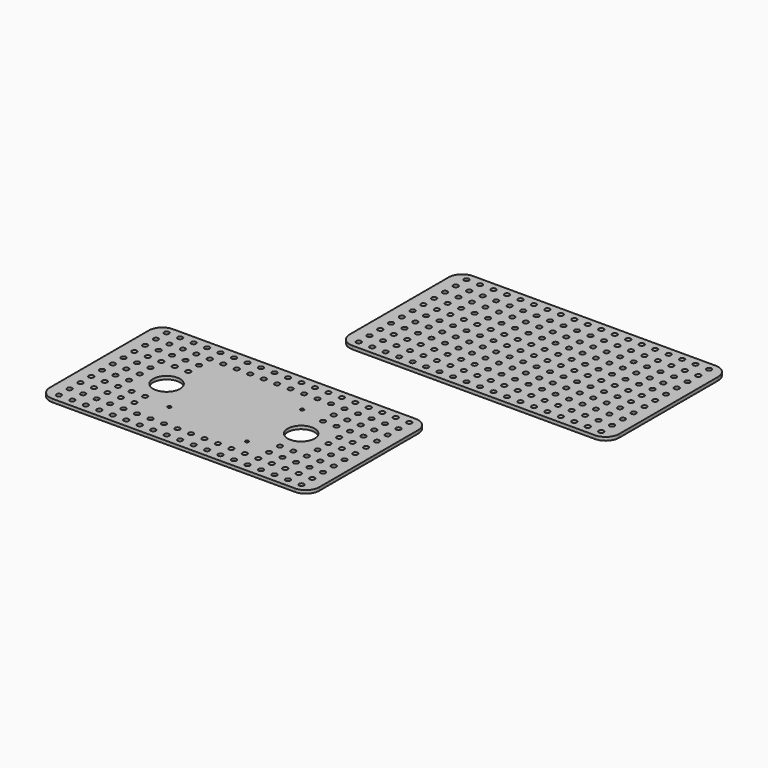
from build123d import *

# Parameters (mm, degrees)
F0_R     = 2.3114
F1_DEPTH = 3.175
F0_R_2   = 12.7
F0_W     = 90.25
F0_H     = 84.8
F0_R_3   = 1.5875
F2_DEPTH = 2.99974


with BuildPart() as f1:
    # F0 (on Top) → F1 (new body)
    with BuildSketch(Plane.XY):
        with BuildLine():
            ThreePointArc((0, 12.7), (3.7197438789, 3.7197438789), (12.7, 0))
            Line((12.7, 0), (241.3, 0))
            ThreePointArc((241.3, 0), (250.2802561211, 3.7197438789), (254, 12.7))
            Line((254, 12.7), (254, 129.3368))
            ThreePointArc((254, 129.3368), (250.2802561211, 138.3170561211), (241.3, 142.0368))
            Line((241.3, 142.0368), (12.7, 142.0368))
            ThreePointArc((12.7, 142.0368), (3.7197438789, 138.3170561211), (0, 129.3368))
            Line((0, 129.3368), (0, 12.7))
        make_face()
        with Locations((12.7, 7.5184)):
            Circle(F0_R, mode=Mode.SUBTRACT)
        with Locations((25.4, 7.5184)):
            Circle(F0_R, mode=Mode.SUBTRACT)
        with Locations((38.1, 7.5184)):
            Circle(F0_R, mode=Mode.SUBTRACT)
        with Locations((50.8, 7.5184)):
            Circle(F0_R, mode=Mode.SUBTRACT)
        with Locations((63.5, 7.5184)):
            Circle(F0_R, mode=Mode.SUBTRACT)
        with Locations((12.7, 20.2184)):
            Circle(F0_R, mode=Mode.SUBTRACT)
        with Locations((12.7, 32.9184)):
            Circle(F0_R, mode=Mode.SUBTRACT)
        with Locations((12.7, 45.6184)):
            Circle(F0_R, mode=Mode.SUBTRACT)
        with Locations((25.4, 20.2184)):
            Circle(F0_R, mode=Mode.SUBTRACT)
        with Locations((38.1, 20.2184)):
            Circle(F0_R, mode=Mode.SUBTRACT)
        with Locations((25.4, 32.9184)):
            Circle(F0_R, mode=Mode.SUBTRACT)
        with Locations((38.1, 32.9184)):
            Circle(F0_R, mode=Mode.SUBTRACT)
        with Locations((50.8, 20.2184)):
            Circle(F0_R, mode=Mode.SUBTRACT)
        with Locations((63.5, 20.2184)):
            Circle(F0_R, mode=Mode.SUBTRACT)
        with Locations((50.8, 32.9184)):
            Circle(F0_R, mode=Mode.SUBTRACT)
        with Locations((63.5, 32.9184)):
            Circle(F0_R, mode=Mode.SUBTRACT)
        with Locations((25.4, 45.6184)):
            Circle(F0_R, mode=Mode.SUBTRACT)
        with Locations((38.1, 45.6184)):
            Circle(F0_R, mode=Mode.SUBTRACT)
        with Locations((50.8, 45.6184)):
            Circle(F0_R, mode=Mode.SUBTRACT)
        with Locations((63.5, 45.6184)):
            Circle(F0_R, mode=Mode.SUBTRACT)
        with Locations((12.7, 58.3184)):
            Circle(F0_R, mode=Mode.SUBTRACT)
        with Locations((12.7, 71.0184)):
            Circle(F0_R, mode=Mode.SUBTRACT)
        with Locations((12.7, 83.7184)):
            Circle(F0_R, mode=Mode.SUBTRACT)
        with Locations((12.7, 96.4184)):
            Circle(F0_R, mode=Mode.SUBTRACT)
        with Locations((25.4, 58.3184)):
            Circle(F0_R, mode=Mode.SUBTRACT)
        with Locations((38.1, 58.3184)):
            Circle(F0_R, mode=Mode.SUBTRACT)
        with Locations((25.4, 71.0184)):
            Circle(F0_R, mode=Mode.SUBTRACT)
        with Locations((38.1, 71.0184)):
            Circle(F0_R, mode=Mode.SUBTRACT)
        with Locations((50.8, 58.3184)):
            Circle(F0_R, mode=Mode.SUBTRACT)
        with Locations((63.5, 58.3184)):
            Circle(F0_R, mode=Mode.SUBTRACT)
        with Locations((50.8, 71.0184)):
            Circle(F0_R, mode=Mode.SUBTRACT)
        with Locations((63.5, 71.0184)):
            Circle(F0_R, mode=Mode.SUBTRACT)
        with Locations((25.4, 83.7184)):
            Circle(F0_R, mode=Mode.SUBTRACT)
        with Locations((38.1, 83.7184)):
            Circle(F0_R, mode=Mode.SUBTRACT)
        with Locations((25.4, 96.4184)):
            Circle(F0_R, mode=Mode.SUBTRACT)
        with Locations((38.1, 96.4184)):
            Circle(F0_R, mode=Mode.SUBTRACT)
        with Locations((50.8, 83.7184)):
            Circle(F0_R, mode=Mode.SUBTRACT)
        with Locations((63.5, 83.7184)):
            Circle(F0_R, mode=Mode.SUBTRACT)
        with Locations((50.8, 96.4184)):
            Circle(F0_R, mode=Mode.SUBTRACT)
        with Locations((63.5, 96.4184)):
            Circle(F0_R, mode=Mode.SUBTRACT)
        with Locations((12.7, 109.1184)):
            Circle(F0_R, mode=Mode.SUBTRACT)
        with Locations((12.7, 121.8184)):
            Circle(F0_R, mode=Mode.SUBTRACT)
        with Locations((12.7, 134.5184)):
            Circle(F0_R, mode=Mode.SUBTRACT)
        with Locations((25.4, 109.1184)):
            Circle(F0_R, mode=Mode.SUBTRACT)
        with Locations((38.1, 109.1184)):
            Circle(F0_R, mode=Mode.SUBTRACT)
        with Locations((50.8, 109.1184)):
            Circle(F0_R, mode=Mode.SUBTRACT)
        with Locations((63.5, 109.1184)):
            Circle(F0_R, mode=Mode.SUBTRACT)
        with Locations((25.4, 121.8184)):
            Circle(F0_R, mode=Mode.SUBTRACT)
        with Locations((38.1, 121.8184)):
            Circle(F0_R, mode=Mode.SUBTRACT)
        with Locations((25.4, 134.5184)):
            Circle(F0_R, mode=Mode.SUBTRACT)
        with Locations((38.1, 134.5184)):
            Circle(F0_R, mode=Mode.SUBTRACT)
        with Locations((50.8, 121.8184)):
            Circle(F0_R, mode=Mode.SUBTRACT)
        with Locations((63.5, 121.8184)):
            Circle(F0_R, mode=Mode.SUBTRACT)
        with Locations((50.8, 134.5184)):
            Circle(F0_R, mode=Mode.SUBTRACT)
        with Locations((63.5, 134.5184)):
            Circle(F0_R, mode=Mode.SUBTRACT)
        with Locations((76.2, 7.5184)):
            Circle(F0_R, mode=Mode.SUBTRACT)
        with Locations((88.9, 7.5184)):
            Circle(F0_R, mode=Mode.SUBTRACT)
        with Locations((101.6, 7.5184)):
            Circle(F0_R, mode=Mode.SUBTRACT)
        with Locations((114.3, 7.5184)):
            Circle(F0_R, mode=Mode.SUBTRACT)
        with Locations((127, 7.5184)):
            Circle(F0_R, mode=Mode.SUBTRACT)
        with Locations((139.7, 7.5184)):
            Circle(F0_R, mode=Mode.SUBTRACT)
        with Locations((152.4, 7.5184)):
            Circle(F0_R, mode=Mode.SUBTRACT)
        with Locations((76.2, 20.2184)):
            Circle(F0_R, mode=Mode.SUBTRACT)
        with Locations((88.9, 20.2184)):
            Circle(F0_R, mode=Mode.SUBTRACT)
        with Locations((76.2, 32.9184)):
            Circle(F0_R, mode=Mode.SUBTRACT)
        with Locations((88.9, 32.9184)):
            Circle(F0_R, mode=Mode.SUBTRACT)
        with Locations((101.6, 20.2184)):
            Circle(F0_R, mode=Mode.SUBTRACT)
        with Locations((101.6, 32.9184)):
            Circle(F0_R, mode=Mode.SUBTRACT)
        with Locations((76.2, 45.6184)):
            Circle(F0_R, mode=Mode.SUBTRACT)
        with Locations((88.9, 45.6184)):
            Circle(F0_R, mode=Mode.SUBTRACT)
        with Locations((101.6, 45.6184)):
            Circle(F0_R, mode=Mode.SUBTRACT)
        with Locations((114.3, 20.2184)):
            Circle(F0_R, mode=Mode.SUBTRACT)
        with Locations((127, 20.2184)):
            Circle(F0_R, mode=Mode.SUBTRACT)
        with Locations((114.3, 32.9184)):
            Circle(F0_R, mode=Mode.SUBTRACT)
        with Locations((127, 32.9184)):
            Circle(F0_R, mode=Mode.SUBTRACT)
        with Locations((139.7, 20.2184)):
            Circle(F0_R, mode=Mode.SUBTRACT)
        with Locations((152.4, 20.2184)):
            Circle(F0_R, mode=Mode.SUBTRACT)
        with Locations((139.7, 32.9184)):
            Circle(F0_R, mode=Mode.SUBTRACT)
        with Locations((152.4, 32.9184)):
            Circle(F0_R, mode=Mode.SUBTRACT)
        with Locations((114.3, 45.6184)):
            Circle(F0_R, mode=Mode.SUBTRACT)
        with Locations((127, 45.6184)):
            Circle(F0_R, mode=Mode.SUBTRACT)
        with Locations((139.7, 45.6184)):
            Circle(F0_R, mode=Mode.SUBTRACT)
        with Locations((152.4, 45.6184)):
            Circle(F0_R, mode=Mode.SUBTRACT)
        with Locations((165.1, 7.5184)):
            Circle(F0_R, mode=Mode.SUBTRACT)
        with Locations((177.8, 7.5184)):
            Circle(F0_R, mode=Mode.SUBTRACT)
        with Locations((190.5, 7.5184)):
            Circle(F0_R, mode=Mode.SUBTRACT)
        with Locations((203.2, 7.5184)):
            Circle(F0_R, mode=Mode.SUBTRACT)
        with Locations((215.9, 7.5184)):
            Circle(F0_R, mode=Mode.SUBTRACT)
        with Locations((228.6, 7.5184)):
            Circle(F0_R, mode=Mode.SUBTRACT)
        with Locations((241.3, 7.5184)):
            Circle(F0_R, mode=Mode.SUBTRACT)
        with Locations((165.1, 20.2184)):
            Circle(F0_R, mode=Mode.SUBTRACT)
        with Locations((177.8, 20.2184)):
            Circle(F0_R, mode=Mode.SUBTRACT)
        with Locations((165.1, 32.9184)):
            Circle(F0_R, mode=Mode.SUBTRACT)
        with Locations((177.8, 32.9184)):
            Circle(F0_R, mode=Mode.SUBTRACT)
        with Locations((190.5, 20.2184)):
            Circle(F0_R, mode=Mode.SUBTRACT)
        with Locations((203.2, 20.2184)):
            Circle(F0_R, mode=Mode.SUBTRACT)
        with Locations((190.5, 32.9184)):
            Circle(F0_R, mode=Mode.SUBTRACT)
        with Locations((203.2, 32.9184)):
            Circle(F0_R, mode=Mode.SUBTRACT)
        with Locations((165.1, 45.6184)):
            Circle(F0_R, mode=Mode.SUBTRACT)
        with Locations((177.8, 45.6184)):
            Circle(F0_R, mode=Mode.SUBTRACT)
        with Locations((190.5, 45.6184)):
            Circle(F0_R, mode=Mode.SUBTRACT)
        with Locations((203.2, 45.6184)):
            Circle(F0_R, mode=Mode.SUBTRACT)
        with Locations((215.9, 20.2184)):
            Circle(F0_R, mode=Mode.SUBTRACT)
        with Locations((228.6, 20.2184)):
            Circle(F0_R, mode=Mode.SUBTRACT)
        with Locations((215.9, 32.9184)):
            Circle(F0_R, mode=Mode.SUBTRACT)
        with Locations((228.6, 32.9184)):
            Circle(F0_R, mode=Mode.SUBTRACT)
        with Locations((241.3, 20.2184)):
            Circle(F0_R, mode=Mode.SUBTRACT)
        with Locations((241.3, 32.9184)):
            Circle(F0_R, mode=Mode.SUBTRACT)
        with Locations((215.9, 45.6184)):
            Circle(F0_R, mode=Mode.SUBTRACT)
        with Locations((228.6, 45.6184)):
            Circle(F0_R, mode=Mode.SUBTRACT)
        with Locations((241.3, 45.6184)):
            Circle(F0_R, mode=Mode.SUBTRACT)
        with Locations((76.2, 58.3184)):
            Circle(F0_R, mode=Mode.SUBTRACT)
        with Locations((88.9, 58.3184)):
            Circle(F0_R, mode=Mode.SUBTRACT)
        with Locations((76.2, 71.0184)):
            Circle(F0_R, mode=Mode.SUBTRACT)
        with Locations((88.9, 71.0184)):
            Circle(F0_R, mode=Mode.SUBTRACT)
        with Locations((101.6, 58.3184)):
            Circle(F0_R, mode=Mode.SUBTRACT)
        with Locations((101.6, 71.0184)):
            Circle(F0_R, mode=Mode.SUBTRACT)
        with Locations((76.2, 83.7184)):
            Circle(F0_R, mode=Mode.SUBTRACT)
        with Locations((88.9, 83.7184)):
            Circle(F0_R, mode=Mode.SUBTRACT)
        with Locations((76.2, 96.4184)):
            Circle(F0_R, mode=Mode.SUBTRACT)
        with Locations((88.9, 96.4184)):
            Circle(F0_R, mode=Mode.SUBTRACT)
        with Locations((101.6, 83.7184)):
            Circle(F0_R, mode=Mode.SUBTRACT)
        with Locations((101.6, 96.4184)):
            Circle(F0_R, mode=Mode.SUBTRACT)
        with Locations((114.3, 58.3184)):
            Circle(F0_R, mode=Mode.SUBTRACT)
        with Locations((127, 58.3184)):
            Circle(F0_R, mode=Mode.SUBTRACT)
        with Locations((114.3, 71.0184)):
            Circle(F0_R, mode=Mode.SUBTRACT)
        with Locations((127, 71.0184)):
            Circle(F0_R, mode=Mode.SUBTRACT)
        with Locations((139.7, 58.3184)):
            Circle(F0_R, mode=Mode.SUBTRACT)
        with Locations((152.4, 58.3184)):
            Circle(F0_R, mode=Mode.SUBTRACT)
        with Locations((139.7, 71.0184)):
            Circle(F0_R, mode=Mode.SUBTRACT)
        with Locations((152.4, 71.0184)):
            Circle(F0_R, mode=Mode.SUBTRACT)
        with Locations((114.3, 83.7184)):
            Circle(F0_R, mode=Mode.SUBTRACT)
        with Locations((127, 83.7184)):
            Circle(F0_R, mode=Mode.SUBTRACT)
        with Locations((114.3, 96.4184)):
            Circle(F0_R, mode=Mode.SUBTRACT)
        with Locations((127, 96.4184)):
            Circle(F0_R, mode=Mode.SUBTRACT)
        with Locations((139.7, 83.7184)):
            Circle(F0_R, mode=Mode.SUBTRACT)
        with Locations((152.4, 83.7184)):
            Circle(F0_R, mode=Mode.SUBTRACT)
        with Locations((139.7, 96.4184)):
            Circle(F0_R, mode=Mode.SUBTRACT)
        with Locations((152.4, 96.4184)):
            Circle(F0_R, mode=Mode.SUBTRACT)
        with Locations((76.2, 109.1184)):
            Circle(F0_R, mode=Mode.SUBTRACT)
        with Locations((88.9, 109.1184)):
            Circle(F0_R, mode=Mode.SUBTRACT)
        with Locations((101.6, 109.1184)):
            Circle(F0_R, mode=Mode.SUBTRACT)
        with Locations((76.2, 121.8184)):
            Circle(F0_R, mode=Mode.SUBTRACT)
        with Locations((88.9, 121.8184)):
            Circle(F0_R, mode=Mode.SUBTRACT)
        with Locations((76.2, 134.5184)):
            Circle(F0_R, mode=Mode.SUBTRACT)
        with Locations((88.9, 134.5184)):
            Circle(F0_R, mode=Mode.SUBTRACT)
        with Locations((101.6, 121.8184)):
            Circle(F0_R, mode=Mode.SUBTRACT)
        with Locations((101.6, 134.5184)):
            Circle(F0_R, mode=Mode.SUBTRACT)
        with Locations((114.3, 109.1184)):
            Circle(F0_R, mode=Mode.SUBTRACT)
        with Locations((127, 109.1184)):
            Circle(F0_R, mode=Mode.SUBTRACT)
        with Locations((139.7, 109.1184)):
            Circle(F0_R, mode=Mode.SUBTRACT)
        with Locations((152.4, 109.1184)):
            Circle(F0_R, mode=Mode.SUBTRACT)
        with Locations((114.3, 121.8184)):
            Circle(F0_R, mode=Mode.SUBTRACT)
        with Locations((127, 121.8184)):
            Circle(F0_R, mode=Mode.SUBTRACT)
        with Locations((114.3, 134.5184)):
            Circle(F0_R, mode=Mode.SUBTRACT)
        with Locations((127, 134.5184)):
            Circle(F0_R, mode=Mode.SUBTRACT)
        with Locations((139.7, 121.8184)):
            Circle(F0_R, mode=Mode.SUBTRACT)
        with Locations((152.4, 121.8184)):
            Circle(F0_R, mode=Mode.SUBTRACT)
        with Locations((139.7, 134.5184)):
            Circle(F0_R, mode=Mode.SUBTRACT)
        with Locations((152.4, 134.5184)):
            Circle(F0_R, mode=Mode.SUBTRACT)
        with Locations((165.1, 58.3184)):
            Circle(F0_R, mode=Mode.SUBTRACT)
        with Locations((177.8, 58.3184)):
            Circle(F0_R, mode=Mode.SUBTRACT)
        with Locations((165.1, 71.0184)):
            Circle(F0_R, mode=Mode.SUBTRACT)
        with Locations((177.8, 71.0184)):
            Circle(F0_R, mode=Mode.SUBTRACT)
        with Locations((190.5, 58.3184)):
            Circle(F0_R, mode=Mode.SUBTRACT)
        with Locations((203.2, 58.3184)):
            Circle(F0_R, mode=Mode.SUBTRACT)
        with Locations((190.5, 71.0184)):
            Circle(F0_R, mode=Mode.SUBTRACT)
        with Locations((203.2, 71.0184)):
            Circle(F0_R, mode=Mode.SUBTRACT)
        with Locations((165.1, 83.7184)):
            Circle(F0_R, mode=Mode.SUBTRACT)
        with Locations((177.8, 83.7184)):
            Circle(F0_R, mode=Mode.SUBTRACT)
        with Locations((165.1, 96.4184)):
            Circle(F0_R, mode=Mode.SUBTRACT)
        with Locations((177.8, 96.4184)):
            Circle(F0_R, mode=Mode.SUBTRACT)
        with Locations((190.5, 83.7184)):
            Circle(F0_R, mode=Mode.SUBTRACT)
        with Locations((203.2, 83.7184)):
            Circle(F0_R, mode=Mode.SUBTRACT)
        with Locations((190.5, 96.4184)):
            Circle(F0_R, mode=Mode.SUBTRACT)
        with Locations((203.2, 96.4184)):
            Circle(F0_R, mode=Mode.SUBTRACT)
        with Locations((215.9, 58.3184)):
            Circle(F0_R, mode=Mode.SUBTRACT)
        with Locations((228.6, 58.3184)):
            Circle(F0_R, mode=Mode.SUBTRACT)
        with Locations((215.9, 71.0184)):
            Circle(F0_R, mode=Mode.SUBTRACT)
        with Locations((228.6, 71.0184)):
            Circle(F0_R, mode=Mode.SUBTRACT)
        with Locations((241.3, 58.3184)):
            Circle(F0_R, mode=Mode.SUBTRACT)
        with Locations((241.3, 71.0184)):
            Circle(F0_R, mode=Mode.SUBTRACT)
        with Locations((215.9, 83.7184)):
            Circle(F0_R, mode=Mode.SUBTRACT)
        with Locations((228.6, 83.7184)):
            Circle(F0_R, mode=Mode.SUBTRACT)
        with Locations((215.9, 96.4184)):
            Circle(F0_R, mode=Mode.SUBTRACT)
        with Locations((228.6, 96.4184)):
            Circle(F0_R, mode=Mode.SUBTRACT)
        with Locations((241.3, 83.7184)):
            Circle(F0_R, mode=Mode.SUBTRACT)
        with Locations((241.3, 96.4184)):
            Circle(F0_R, mode=Mode.SUBTRACT)
        with Locations((165.1, 109.1184)):
            Circle(F0_R, mode=Mode.SUBTRACT)
        with Locations((177.8, 109.1184)):
            Circle(F0_R, mode=Mode.SUBTRACT)
        with Locations((190.5, 109.1184)):
            Circle(F0_R, mode=Mode.SUBTRACT)
        with Locations((203.2, 109.1184)):
            Circle(F0_R, mode=Mode.SUBTRACT)
        with Locations((165.1, 121.8184)):
            Circle(F0_R, mode=Mode.SUBTRACT)
        with Locations((177.8, 121.8184)):
            Circle(F0_R, mode=Mode.SUBTRACT)
        with Locations((165.1, 134.5184)):
            Circle(F0_R, mode=Mode.SUBTRACT)
        with Locations((177.8, 134.5184)):
            Circle(F0_R, mode=Mode.SUBTRACT)
        with Locations((190.5, 121.8184)):
            Circle(F0_R, mode=Mode.SUBTRACT)
        with Locations((203.2, 121.8184)):
            Circle(F0_R, mode=Mode.SUBTRACT)
        with Locations((190.5, 134.5184)):
            Circle(F0_R, mode=Mode.SUBTRACT)
        with Locations((203.2, 134.5184)):
            Circle(F0_R, mode=Mode.SUBTRACT)
        with Locations((215.9, 109.1184)):
            Circle(F0_R, mode=Mode.SUBTRACT)
        with Locations((228.6, 109.1184)):
            Circle(F0_R, mode=Mode.SUBTRACT)
        with Locations((241.3, 109.1184)):
            Circle(F0_R, mode=Mode.SUBTRACT)
        with Locations((215.9, 121.8184)):
            Circle(F0_R, mode=Mode.SUBTRACT)
        with Locations((228.6, 121.8184)):
            Circle(F0_R, mode=Mode.SUBTRACT)
        with Locations((215.9, 134.5184)):
            Circle(F0_R, mode=Mode.SUBTRACT)
        with Locations((228.6, 134.5184)):
            Circle(F0_R, mode=Mode.SUBTRACT)
        with Locations((241.3, 121.8184)):
            Circle(F0_R, mode=Mode.SUBTRACT)
        with Locations((241.3, 134.5184)):
            Circle(F0_R, mode=Mode.SUBTRACT)
    extrude(amount=F1_DEPTH)


with BuildPart() as f2:
    # F0 (on Top) → F2 (new body)
    with BuildSketch(Plane.XY):
        with BuildLine():
            ThreePointArc((-119.5963533665, -191.0901449851), (-115.8766094875, -200.0704011062), (-106.8963533665, -203.7901449851))
            Line((-106.8963533665, -203.7901449851), (121.7036466335, -203.7901449851))
            ThreePointArc((121.7036466335, -203.7901449851), (130.6839027546, -200.0704011062), (134.4036466335, -191.0901449851))
            Line((134.4036466335, -191.0901449851), (134.4036466335, -74.4533449851))
            ThreePointArc((134.4036466335, -74.4533449851), (130.6839027546, -65.473088864), (121.7036466335, -61.7533449851))
            Line((121.7036466335, -61.7533449851), (-106.8963533665, -61.7533449851))
            ThreePointArc((-106.8963533665, -61.7533449851), (-115.8766094875, -65.473088864), (-119.5963533665, -74.4533449851))
            Line((-119.5963533665, -74.4533449851), (-119.5963533665, -191.0901449851))
        make_face()
        with Locations((-106.8963533665, -196.2717449851)):
            Circle(F0_R, mode=Mode.SUBTRACT)
        with Locations((-106.8963533665, -183.5717449851)):
            Circle(F0_R, mode=Mode.SUBTRACT)
        with Locations((-94.1963533665, -196.2717449851)):
            Circle(F0_R, mode=Mode.SUBTRACT)
        with Locations((-81.4963533665, -196.2717449851)):
            Circle(F0_R, mode=Mode.SUBTRACT)
        with Locations((-94.1963533665, -183.5717449851)):
            Circle(F0_R, mode=Mode.SUBTRACT)
        with Locations((-81.4963533665, -183.5717449851)):
            Circle(F0_R, mode=Mode.SUBTRACT)
        with Locations((-106.8963533665, -170.8717449851)):
            Circle(F0_R, mode=Mode.SUBTRACT)
        with Locations((-94.1963533665, -170.8717449851)):
            Circle(F0_R, mode=Mode.SUBTRACT)
        with Locations((-81.4963533665, -170.8717449851)):
            Circle(F0_R, mode=Mode.SUBTRACT)
        with Locations((-68.7963533665, -196.2717449851)):
            Circle(F0_R, mode=Mode.SUBTRACT)
        with Locations((-56.0963533665, -196.2717449851)):
            Circle(F0_R, mode=Mode.SUBTRACT)
        with Locations((-68.7963533665, -183.5717449851)):
            Circle(F0_R, mode=Mode.SUBTRACT)
        with Locations((-56.0963533665, -183.5717449851)):
            Circle(F0_R, mode=Mode.SUBTRACT)
        with Locations((-43.3963533665, -196.2717449851)):
            Circle(F0_R, mode=Mode.SUBTRACT)
        with Locations((-30.6963533665, -196.2717449851)):
            Circle(F0_R, mode=Mode.SUBTRACT)
        with Locations((-43.3963533665, -183.5717449851)):
            Circle(F0_R, mode=Mode.SUBTRACT)
        with Locations((-30.6963533665, -183.5717449851)):
            Circle(F0_R, mode=Mode.SUBTRACT)
        with Locations((-68.7963533665, -170.8717449851)):
            Circle(F0_R, mode=Mode.SUBTRACT)
        with Locations((-56.0963533665, -170.8717449851)):
            Circle(F0_R, mode=Mode.SUBTRACT)
        with Locations((-106.8963533665, -158.1717449851)):
            Circle(F0_R, mode=Mode.SUBTRACT)
        with Locations((-106.8963533665, -145.4717449851)):
            Circle(F0_R, mode=Mode.SUBTRACT)
        with Locations((-94.1963533665, -158.1717449851)):
            Circle(F0_R, mode=Mode.SUBTRACT)
        with Locations((-81.4963533665, -158.1717449851)):
            Circle(F0_R, mode=Mode.SUBTRACT)
        with Locations((-94.1963533665, -145.4717449851)):
            Circle(F0_R, mode=Mode.SUBTRACT)
        with Locations((-81.4963533665, -145.4717449851)):
            Circle(F0_R, mode=Mode.SUBTRACT)
        with Locations((-106.8963533665, -132.7717449851)):
            Circle(F0_R, mode=Mode.SUBTRACT)
        with Locations((-106.8963533665, -120.0717449851)):
            Circle(F0_R, mode=Mode.SUBTRACT)
        with Locations((-94.1963533665, -132.7717449851)):
            Circle(F0_R, mode=Mode.SUBTRACT)
        with Locations((-81.4963533665, -132.7717449851)):
            Circle(F0_R, mode=Mode.SUBTRACT)
        with Locations((-94.1963533665, -120.0717449851)):
            Circle(F0_R, mode=Mode.SUBTRACT)
        with Locations((-81.4963533665, -120.0717449851)):
            Circle(F0_R, mode=Mode.SUBTRACT)
        with Locations((-68.7963533665, -158.1717449851)):
            Circle(F0_R, mode=Mode.SUBTRACT)
        with Locations((-56.0963533665, -158.1717449851)):
            Circle(F0_R, mode=Mode.SUBTRACT)
        with Locations((-56.1975259643, -132.7717449851)):
            Circle(F0_R_2, mode=Mode.SUBTRACT)
        with Locations((-17.9963533665, -196.2717449851)):
            Circle(F0_R, mode=Mode.SUBTRACT)
        with Locations((-5.2963533665, -196.2717449851)):
            Circle(F0_R, mode=Mode.SUBTRACT)
        with Locations((-17.9963533665, -183.5717449851)):
            Circle(F0_R, mode=Mode.SUBTRACT)
        with Locations((-5.2963533665, -183.5717449851)):
            Circle(F0_R, mode=Mode.SUBTRACT)
        with Locations((7.4036466335, -196.2717449851)):
            Circle(F0_R, mode=Mode.SUBTRACT)
        with Locations((20.1036466335, -196.2717449851)):
            Circle(F0_R, mode=Mode.SUBTRACT)
        with Locations((7.4036466335, -183.5717449851)):
            Circle(F0_R, mode=Mode.SUBTRACT)
        with Locations((20.1036466335, -183.5717449851)):
            Circle(F0_R, mode=Mode.SUBTRACT)
        with Locations((32.8036466335, -196.2717449851)):
            Circle(F0_R, mode=Mode.SUBTRACT)
        with Locations((32.8036466335, -183.5717449851)):
            Circle(F0_R, mode=Mode.SUBTRACT)
        with Locations((45.5036466335, -196.2717449851)):
            Circle(F0_R, mode=Mode.SUBTRACT)
        with Locations((58.2036466335, -196.2717449851)):
            Circle(F0_R, mode=Mode.SUBTRACT)
        with Locations((45.5036466335, -183.5717449851)):
            Circle(F0_R, mode=Mode.SUBTRACT)
        with Locations((58.2036466335, -183.5717449851)):
            Circle(F0_R, mode=Mode.SUBTRACT)
        with Locations((7.4036466335, -132.7717449851)):
            Rectangle(F0_W, F0_H, mode=Mode.SUBTRACT)
        with Locations((-106.8963533665, -107.3717449851)):
            Circle(F0_R, mode=Mode.SUBTRACT)
        with Locations((-94.1963533665, -107.3717449851)):
            Circle(F0_R, mode=Mode.SUBTRACT)
        with Locations((-81.4963533665, -107.3717449851)):
            Circle(F0_R, mode=Mode.SUBTRACT)
        with Locations((-106.8963533665, -94.6717449851)):
            Circle(F0_R, mode=Mode.SUBTRACT)
        with Locations((-106.8963533665, -81.9717449851)):
            Circle(F0_R, mode=Mode.SUBTRACT)
        with Locations((-94.1963533665, -94.6717449851)):
            Circle(F0_R, mode=Mode.SUBTRACT)
        with Locations((-81.4963533665, -94.6717449851)):
            Circle(F0_R, mode=Mode.SUBTRACT)
        with Locations((-94.1963533665, -81.9717449851)):
            Circle(F0_R, mode=Mode.SUBTRACT)
        with Locations((-81.4963533665, -81.9717449851)):
            Circle(F0_R, mode=Mode.SUBTRACT)
        with Locations((-68.7963533665, -107.3717449851)):
            Circle(F0_R, mode=Mode.SUBTRACT)
        with Locations((-56.0963533665, -107.3717449851)):
            Circle(F0_R, mode=Mode.SUBTRACT)
        with Locations((-68.7963533665, -94.6717449851)):
            Circle(F0_R, mode=Mode.SUBTRACT)
        with Locations((-56.0963533665, -94.6717449851)):
            Circle(F0_R, mode=Mode.SUBTRACT)
        with Locations((-68.7963533665, -81.9717449851)):
            Circle(F0_R, mode=Mode.SUBTRACT)
        with Locations((-56.0963533665, -81.9717449851)):
            Circle(F0_R, mode=Mode.SUBTRACT)
        with Locations((-43.3963533665, -81.9717449851)):
            Circle(F0_R, mode=Mode.SUBTRACT)
        with Locations((-30.6963533665, -81.9717449851)):
            Circle(F0_R, mode=Mode.SUBTRACT)
        with Locations((-106.8963533665, -69.2717449851)):
            Circle(F0_R, mode=Mode.SUBTRACT)
        with Locations((-94.1963533665, -69.2717449851)):
            Circle(F0_R, mode=Mode.SUBTRACT)
        with Locations((-81.4963533665, -69.2717449851)):
            Circle(F0_R, mode=Mode.SUBTRACT)
        with Locations((-68.7963533665, -69.2717449851)):
            Circle(F0_R, mode=Mode.SUBTRACT)
        with Locations((-56.0963533665, -69.2717449851)):
            Circle(F0_R, mode=Mode.SUBTRACT)
        with Locations((-43.3963533665, -69.2717449851)):
            Circle(F0_R, mode=Mode.SUBTRACT)
        with Locations((-30.6963533665, -69.2717449851)):
            Circle(F0_R, mode=Mode.SUBTRACT)
        with Locations((-17.9963533665, -81.9717449851)):
            Circle(F0_R, mode=Mode.SUBTRACT)
        with Locations((-5.2963533665, -81.9717449851)):
            Circle(F0_R, mode=Mode.SUBTRACT)
        with Locations((7.4036466335, -81.9717449851)):
            Circle(F0_R, mode=Mode.SUBTRACT)
        with Locations((20.1036466335, -81.9717449851)):
            Circle(F0_R, mode=Mode.SUBTRACT)
        with Locations((32.8036466335, -81.9717449851)):
            Circle(F0_R, mode=Mode.SUBTRACT)
        with Locations((45.5036466335, -81.9717449851)):
            Circle(F0_R, mode=Mode.SUBTRACT)
        with Locations((58.2036466335, -81.9717449851)):
            Circle(F0_R, mode=Mode.SUBTRACT)
        with Locations((-17.9963533665, -69.2717449851)):
            Circle(F0_R, mode=Mode.SUBTRACT)
        with Locations((-5.2963533665, -69.2717449851)):
            Circle(F0_R, mode=Mode.SUBTRACT)
        with Locations((7.4036466335, -69.2717449851)):
            Circle(F0_R, mode=Mode.SUBTRACT)
        with Locations((20.1036466335, -69.2717449851)):
            Circle(F0_R, mode=Mode.SUBTRACT)
        with Locations((32.8036466335, -69.2717449851)):
            Circle(F0_R, mode=Mode.SUBTRACT)
        with Locations((45.5036466335, -69.2717449851)):
            Circle(F0_R, mode=Mode.SUBTRACT)
        with Locations((58.2036466335, -69.2717449851)):
            Circle(F0_R, mode=Mode.SUBTRACT)
        with Locations((70.9036466335, -196.2717449851)):
            Circle(F0_R, mode=Mode.SUBTRACT)
        with Locations((83.6036466335, -196.2717449851)):
            Circle(F0_R, mode=Mode.SUBTRACT)
        with Locations((70.9036466335, -183.5717449851)):
            Circle(F0_R, mode=Mode.SUBTRACT)
        with Locations((83.6036466335, -183.5717449851)):
            Circle(F0_R, mode=Mode.SUBTRACT)
        with Locations((96.3036466335, -196.2717449851)):
            Circle(F0_R, mode=Mode.SUBTRACT)
        with Locations((109.0036466335, -196.2717449851)):
            Circle(F0_R, mode=Mode.SUBTRACT)
        with Locations((96.3036466335, -183.5717449851)):
            Circle(F0_R, mode=Mode.SUBTRACT)
        with Locations((109.0036466335, -183.5717449851)):
            Circle(F0_R, mode=Mode.SUBTRACT)
        with Locations((70.9036466335, -170.8717449851)):
            Circle(F0_R, mode=Mode.SUBTRACT)
        with Locations((83.6036466335, -170.8717449851)):
            Circle(F0_R, mode=Mode.SUBTRACT)
        with Locations((96.3036466335, -170.8717449851)):
            Circle(F0_R, mode=Mode.SUBTRACT)
        with Locations((109.0036466335, -170.8717449851)):
            Circle(F0_R, mode=Mode.SUBTRACT)
        with Locations((121.7036466335, -196.2717449851)):
            Circle(F0_R, mode=Mode.SUBTRACT)
        with Locations((121.7036466335, -183.5717449851)):
            Circle(F0_R, mode=Mode.SUBTRACT)
        with Locations((121.7036466335, -170.8717449851)):
            Circle(F0_R, mode=Mode.SUBTRACT)
        with Locations((70.9036466335, -158.1717449851)):
            Circle(F0_R, mode=Mode.SUBTRACT)
        with Locations((83.6036466335, -158.1717449851)):
            Circle(F0_R, mode=Mode.SUBTRACT)
        with Locations((96.3036466335, -158.1717449851)):
            Circle(F0_R, mode=Mode.SUBTRACT)
        with Locations((109.0036466335, -158.1717449851)):
            Circle(F0_R, mode=Mode.SUBTRACT)
        with Locations((96.3036466335, -145.4717449851)):
            Circle(F0_R, mode=Mode.SUBTRACT)
        with Locations((109.0036466335, -145.4717449851)):
            Circle(F0_R, mode=Mode.SUBTRACT)
        with Locations((70.654907423, -132.7717449851)):
            Circle(F0_R_2, mode=Mode.SUBTRACT)
        with Locations((96.3036466335, -132.7717449851)):
            Circle(F0_R, mode=Mode.SUBTRACT)
        with Locations((109.0036466335, -132.7717449851)):
            Circle(F0_R, mode=Mode.SUBTRACT)
        with Locations((96.3036466335, -120.0717449851)):
            Circle(F0_R, mode=Mode.SUBTRACT)
        with Locations((109.0036466335, -120.0717449851)):
            Circle(F0_R, mode=Mode.SUBTRACT)
        with Locations((121.7036466335, -158.1717449851)):
            Circle(F0_R, mode=Mode.SUBTRACT)
        with Locations((121.7036466335, -145.4717449851)):
            Circle(F0_R, mode=Mode.SUBTRACT)
        with Locations((121.7036466335, -132.7717449851)):
            Circle(F0_R, mode=Mode.SUBTRACT)
        with Locations((121.7036466335, -120.0717449851)):
            Circle(F0_R, mode=Mode.SUBTRACT)
        with Locations((70.9036466335, -107.3717449851)):
            Circle(F0_R, mode=Mode.SUBTRACT)
        with Locations((83.6036466335, -107.3717449851)):
            Circle(F0_R, mode=Mode.SUBTRACT)
        with Locations((96.3036466335, -107.3717449851)):
            Circle(F0_R, mode=Mode.SUBTRACT)
        with Locations((109.0036466335, -107.3717449851)):
            Circle(F0_R, mode=Mode.SUBTRACT)
        with Locations((70.9036466335, -94.6717449851)):
            Circle(F0_R, mode=Mode.SUBTRACT)
        with Locations((83.6036466335, -94.6717449851)):
            Circle(F0_R, mode=Mode.SUBTRACT)
        with Locations((70.9036466335, -81.9717449851)):
            Circle(F0_R, mode=Mode.SUBTRACT)
        with Locations((83.6036466335, -81.9717449851)):
            Circle(F0_R, mode=Mode.SUBTRACT)
        with Locations((96.3036466335, -94.6717449851)):
            Circle(F0_R, mode=Mode.SUBTRACT)
        with Locations((109.0036466335, -94.6717449851)):
            Circle(F0_R, mode=Mode.SUBTRACT)
        with Locations((96.3036466335, -81.9717449851)):
            Circle(F0_R, mode=Mode.SUBTRACT)
        with Locations((109.0036466335, -81.9717449851)):
            Circle(F0_R, mode=Mode.SUBTRACT)
        with Locations((121.7036466335, -107.3717449851)):
            Circle(F0_R, mode=Mode.SUBTRACT)
        with Locations((121.7036466335, -94.6717449851)):
            Circle(F0_R, mode=Mode.SUBTRACT)
        with Locations((121.7036466335, -81.9717449851)):
            Circle(F0_R, mode=Mode.SUBTRACT)
        with Locations((70.9036466335, -69.2717449851)):
            Circle(F0_R, mode=Mode.SUBTRACT)
        with Locations((83.6036466335, -69.2717449851)):
            Circle(F0_R, mode=Mode.SUBTRACT)
        with Locations((96.3036466335, -69.2717449851)):
            Circle(F0_R, mode=Mode.SUBTRACT)
        with Locations((109.0036466335, -69.2717449851)):
            Circle(F0_R, mode=Mode.SUBTRACT)
        with Locations((121.7036466335, -69.2717449851)):
            Circle(F0_R, mode=Mode.SUBTRACT)
        with Locations((7.4036466335, -132.7717449851)):
            Rectangle(F0_W, F0_H)
        with Locations((-31.6333533665, -160.2337449851)):
            Circle(F0_R_3, mode=Mode.SUBTRACT)
        with Locations((47.3246466335, -167.4167449851)):
            Circle(F0_R_3, mode=Mode.SUBTRACT)
        with Locations((47.3246466335, -102.4167449851)):
            Circle(F0_R_3, mode=Mode.SUBTRACT)
    extrude(amount=F2_DEPTH)


solid = Compound([f1.part, f2.part])
